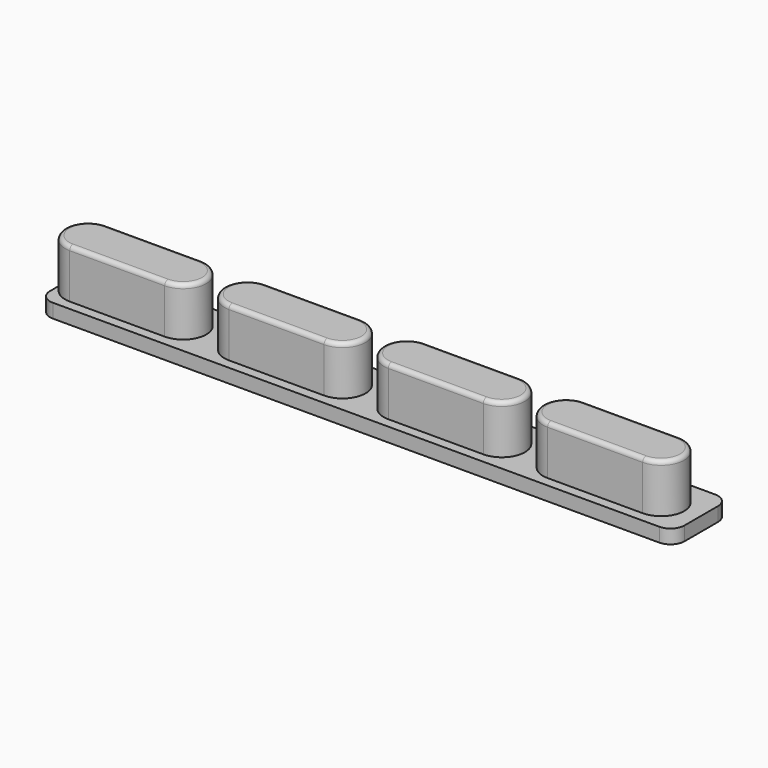
from build123d import *

# Parameters (mm, degrees)
F0_W     = 45.4
F0_H     = 5
F1_DEPTH = 1
F2_W     = 6.8
F2_H     = 3.3
F3_DEPTH = 3.5
F4_R     = 1
F5_R     = 0.3


with BuildPart() as f1:
    # F0 (on Top) → F1 (new body)
    with BuildSketch(Plane.XY):
        with Locations((4.700655, -4.029623)):
            Rectangle(F0_W, F0_H)
        with Locations((4.700655, -4.029623)):
            Rectangle(F0_W, F0_H)
    extrude(amount=F1_DEPTH)

    # F2 (on face) → F3 (join)
    with BuildSketch(Plane.XY.offset(1)):
        with Locations((-12.949345, -4.179623)):
            Rectangle(F2_W, F2_H)
        with BuildLine():
            Line((-16.349345, -5.829623), (-16.349345, -2.529623))
            ThreePointArc((-16.349345, -2.529623), (-17.999345, -4.179623), (-16.349345, -5.829623))
        make_face()
        with BuildLine():
            ThreePointArc((-9.549345, -5.829623), (-7.899345, -4.179623), (-9.549345, -2.529623))
            Line((-9.549345, -2.529623), (-9.549345, -5.829623))
        make_face()
        with BuildLine():
            Line((-4.949345, -5.829623), (-4.949345, -2.529623))
            ThreePointArc((-4.949345, -2.529623), (-6.599345, -4.179623), (-4.949345, -5.829623))
        make_face()
        with Locations((-1.549345, -4.179623)):
            Rectangle(F2_W, F2_H)
        with BuildLine():
            ThreePointArc((1.850655, -5.829623), (3.500655, -4.179623), (1.850655, -2.529623))
            Line((1.850655, -2.529623), (1.850655, -5.829623))
        make_face()
        with BuildLine():
            Line((6.450655, -5.829623), (6.450655, -2.529623))
            ThreePointArc((6.450655, -2.529623), (4.800655, -4.179623), (6.450655, -5.829623))
        make_face()
        with Locations((9.850655, -4.179623)):
            Rectangle(F2_W, F2_H)
        with BuildLine():
            ThreePointArc((13.250655, -5.829623), (14.900655, -4.179623), (13.250655, -2.529623))
            Line((13.250655, -2.529623), (13.250655, -5.829623))
        make_face()
        with BuildLine():
            Line((17.850655, -5.829623), (17.850655, -2.529623))
            ThreePointArc((17.850655, -2.529623), (16.200655, -4.179623), (17.850655, -5.829623))
        make_face()
        with Locations((21.250655, -4.179623)):
            Rectangle(F2_W, F2_H)
        with BuildLine():
            ThreePointArc((24.650655, -5.829623), (26.300655, -4.179623), (24.650655, -2.529623))
            Line((24.650655, -2.529623), (24.650655, -5.829623))
        make_face()
    extrude(amount=F3_DEPTH)

    # F4
    f4_edges = [f1.edges().sort_by_distance(p)[0] for p in [
        (-17.999345, -1.529623, 0.5),
        (-17.999345, -6.529623, 0.5),
        (27.400655, -1.529623, 0.5),
        (27.400655, -6.529623, 0.5),
    ]]
    fillet(f4_edges, radius=F4_R)

    # F5
    f5_edges = [f1.edges().sort_by_distance(p)[0] for p in [
        (-17.999345, -4.179623, 4.5),
        (-6.599345, -4.179623, 4.5),
        (4.800655, -4.179623, 4.5),
        (16.200655, -4.179623, 4.5),
    ]]
    fillet(f5_edges, radius=F5_R)


solid = f1.part
